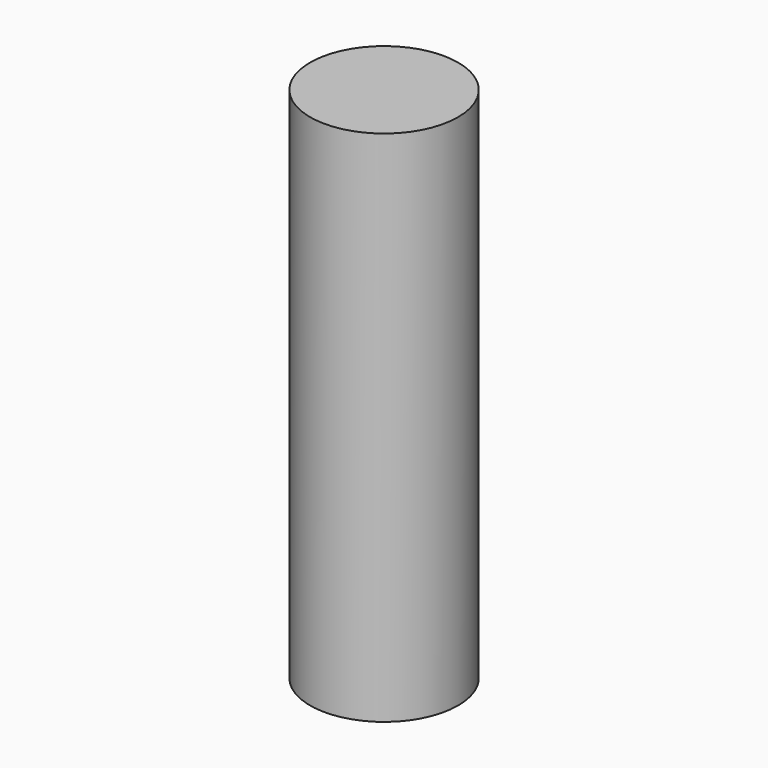
from build123d import *

# Parameters (mm, degrees)
F0_R     = 6.35
F1_DEPTH = 44.45


with BuildPart() as f1:
    # F0 (on Top) → F1 (new body)
    with BuildSketch(Plane.XY):
        with Locations((-0.098293, 0.098292)):
            Circle(F0_R)
    extrude(amount=-F1_DEPTH)


solid = f1.part
